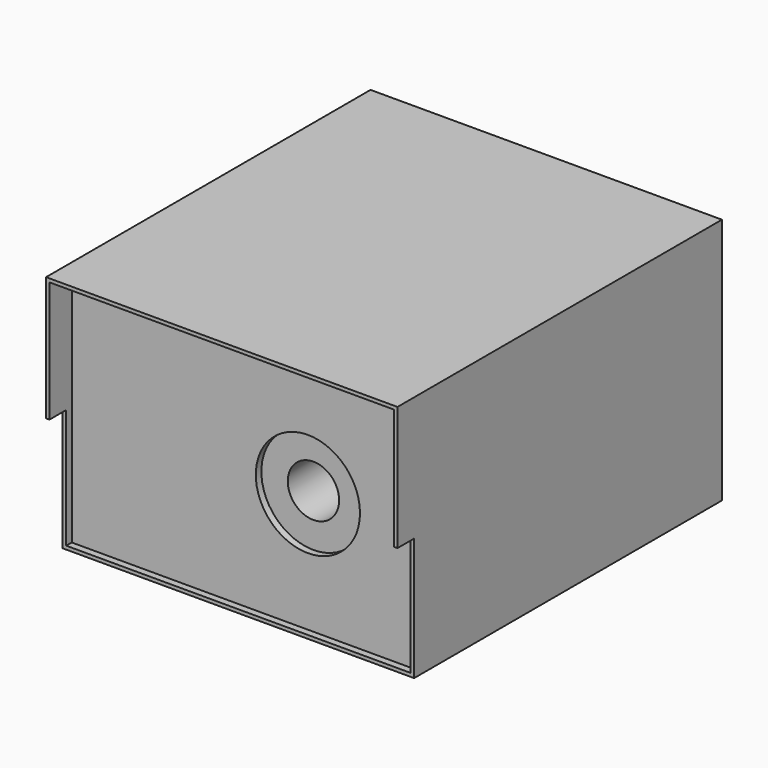
from build123d import *

# Parameters (mm, degrees)
F0_W      = 253
F0_H      = 277
F1_DEPTH  = 178
F2_W      = 248
F2_H      = 173
F2_R      = 37.5
F3_DEPTH  = 5
F5_DEPTH  = 15
F6_DEPTH  = 10
F7_R      = 18.5
F8_DEPTH  = 257
F9_R      = 2.2
F10_DEPTH = 5


with BuildPart() as f1:
    # F0 (on Top) → F1 (new body)
    with BuildSketch(Plane.XY):
        Rectangle(F0_W, F0_H)
    extrude(amount=F1_DEPTH)

    # F2 (on face) → F3 (cut)
    with BuildSketch(Plane.XZ.offset(138.5)):
        with Locations((0, 89)):
            Rectangle(F2_W, F2_H)
        with Locations((46, 88.5)):
            Circle(F2_R, mode=Mode.SUBTRACT)
    extrude(amount=-F3_DEPTH, mode=Mode.SUBTRACT)

    # F4 (on face) → F5 (join)
    with BuildSketch(Plane.XZ.offset(138.5)):
        Polygon((-126.5, 178), (-126.5, 88.5), (-124, 88.5), (-124, 175.5), (124, 175.5), (124, 88.5), (126.5, 88.5), (126.5, 178), align=None)
    extrude(amount=F5_DEPTH)

    # F6 (cut): a face of the model
    f6_faces = [f1.faces().sort_by_distance(p)[0] for p in [
        (46, -138.5, 88.5),
    ]]
    extrude(f6_faces, amount=-F6_DEPTH, mode=Mode.SUBTRACT)

    # F7 (on face) → F8 (cut)
    with BuildSketch(Plane.XZ.offset(128.5)):
        with Locations((46, 88.5)):
            Circle(F7_R)
    extrude(amount=-F8_DEPTH, mode=Mode.SUBTRACT)

    # F9 (on face) → F10 (cut)
    with BuildSketch(Plane(origin=(0, 0, 0), x_dir=(1, 0, 0), z_dir=(0, 0, -1))):
        with Locations((-96, 109.0106)):
            Circle(F9_R)
        with Locations((95.9986, 109.0106)):
            Circle(F9_R)
        with Locations((-96, -108.9976)):
            Circle(F9_R)
        with Locations((95.9986, -108.9976)):
            Circle(F9_R)
    extrude(amount=-F10_DEPTH, mode=Mode.SUBTRACT)


solid = f1.part
